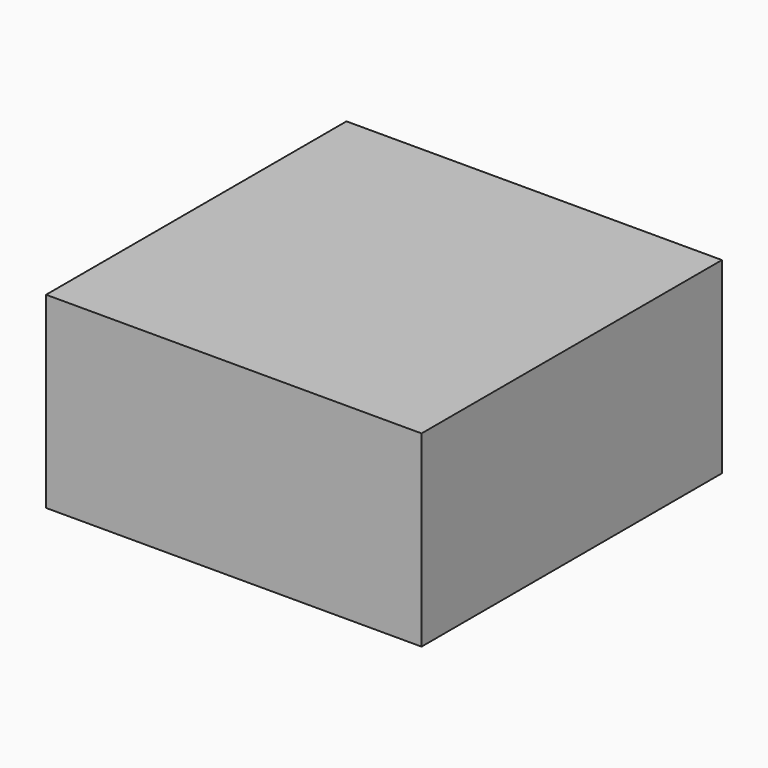
from build123d import *

# Parameters (mm, degrees)
SKETCH_W  = 20
SKETCH_H  = 20
PAD_DEPTH = 10


with BuildPart() as part:
    # Sketch → Pad (new body)
    with BuildSketch(Plane.XY):
        Rectangle(SKETCH_W, SKETCH_H)
    extrude(amount=PAD_DEPTH)


solid = part.part
